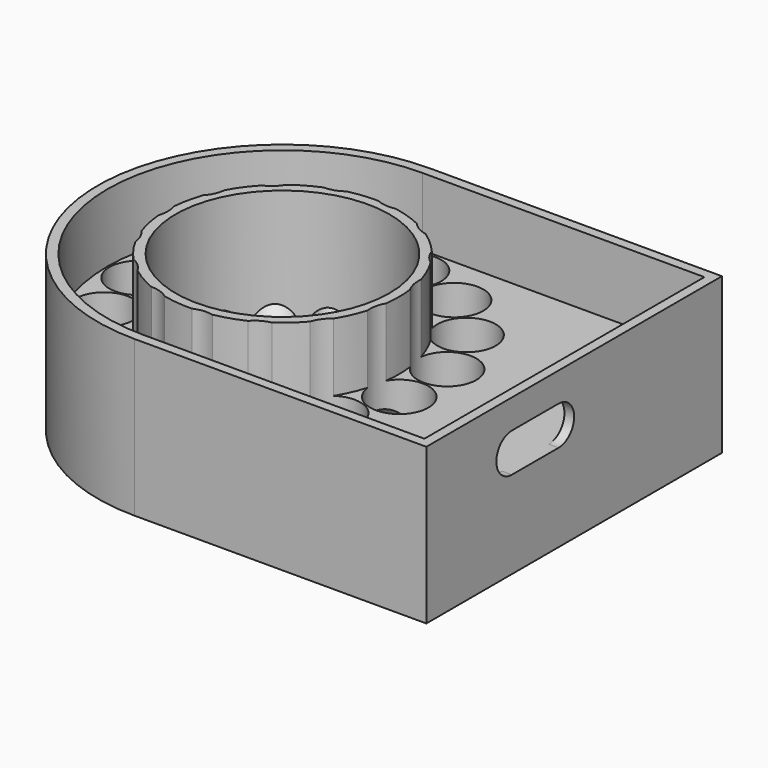
from build123d import *

# Parameters (mm, degrees)
CYLINDER001_R            = 3
CYLINDER001_DEPTH        = 25
CYLINDER_R               = 2.5
CYLINDER_DEPTH           = 10
CYLINDER_PLACEMENT_ANGLE = 225
FUSION_PLACEMENT_ANGLE   = 180
ARRAY001_COUNT           = 15
CYLINDER002_R            = 11
CYLINDER002_DEPTH        = 100
BOX_W                    = 30
BOX_H                    = 38
BOX_DEPTH                = 20
CYLINDER003_R            = 19
CYLINDER003_DEPTH        = 20
SKETCH006_R              = 12
POCKET003_DEPTH          = 7
POCKET004_DEPTH          = 1.001
POCKET005_DEPTH          = 4


with BuildPart() as obj1:
    # Cone → Cone (revolve)
    with BuildSketch(Plane(origin=(0, 0, -10), x_dir=(1, 0, 0), z_dir=(0, -1, 0))):
        Polygon((0, 0), (17, 0), (8, 11), (0, 11), align=None)
    revolve(axis=Axis((0, 0, -10), (0, 0, 1)))


with BuildPart() as obj2:
    # Cylinder001 → Cylinder001 (new body)
    with BuildSketch(Plane.XY.offset(-2)):
        Circle(CYLINDER001_R)
    extrude(amount=CYLINDER001_DEPTH)


with BuildPart() as array001:
    # Cylinder → Cylinder (new body)
    with BuildSketch(Plane.XY):
        Circle(CYLINDER_R)
    extrude(amount=CYLINDER_DEPTH)


with BuildPart() as array001_1:
    # Cylinder placement: moved
    add(array001.part.rotate(Axis((0, 0, 0), (0, 1, 0)), CYLINDER_PLACEMENT_ANGLE))

    # Fusion: union obj2
    add(obj2.part)


with BuildPart() as array001_2:
    # Fusion placement: moved
    add(array001_1.part.moved(Location((-14.8, 0, 0))).rotate(Axis((-14.8, 0, 0), (0, 0, 1)), FUSION_PLACEMENT_ANGLE))

    # Array001: Array001 ×15 about axis
    array001_axis = Axis((0, 0, 0), (0, 0, 1))


with BuildPart() as array001_3:
    add(array001_2.part)
    for i in range(1, ARRAY001_COUNT):
        add(array001_2.part.rotate(array001_axis, i * 360 / ARRAY001_COUNT))


with BuildPart() as obj3:
    # Cylinder002 → Cylinder002 (new body)
    with BuildSketch(Plane.XY.offset(-50)):
        Circle(CYLINDER002_R)
    extrude(amount=CYLINDER002_DEPTH)


with BuildPart() as obj4:
    # Box → Box (new body)
    with BuildSketch(Plane(origin=(0, -19, -10), x_dir=(1, 0, 0), z_dir=(0, 0, 1))):
        with Locations((15, 19)):
            Rectangle(BOX_W, BOX_H)
    extrude(amount=BOX_DEPTH)


with BuildPart() as body003:
    # Cylinder003 → Cylinder003 (new body)
    with BuildSketch(Plane.XY.offset(-10)):
        Circle(CYLINDER003_R)
    extrude(amount=CYLINDER003_DEPTH)

    # Fusion001: union obj4
    add(obj4.part)

    # Cut002: cut obj3
    add(obj3.part, mode=Mode.SUBTRACT)

    # Cut003: cut Array001
    add(array001_3.part, mode=Mode.SUBTRACT)

    # Cut004: cut obj1
    add(obj1.part, mode=Mode.SUBTRACT)

    # Sketch006 (on Face53 of BaseFeature) → Pocket003 (cut)
    with BuildSketch(Plane.XY.offset(10)):
        with BuildLine():
            ThreePointArc((0, 18), (-18, 0), (0, -18))
            Line((29, -18), (0, -18))
            Line((29, 18), (29, -18))
            Line((0, 18), (29, 18))
        make_face()
        Circle(SKETCH006_R, mode=Mode.SUBTRACT)
    extrude(amount=-POCKET003_DEPTH, mode=Mode.SUBTRACT)

    # Sketch007 (on Face10 of Pocket003) → Pocket004 (cut, through all)
    with BuildSketch(Plane(origin=(29, 0, 0), x_dir=(0, -1, 0), z_dir=(-1, 0, 0))):
        with BuildLine():
            ThreePointArc((2, 7), (0, 5), (2, 3))
            Line((2, 3), (8, 3))
            ThreePointArc((8, 3), (10, 5), (8, 7))
            Line((8, 7), (2, 7))
        make_face()
    extrude(amount=-POCKET004_DEPTH, mode=Mode.SUBTRACT)

    # Sketch008 (on Face2 of Pocket004) → Pocket005 (cut)
    with BuildSketch(Plane(origin=(0, 0, -10), x_dir=(1, 0, 0), z_dir=(0, 0, -1))):
        with BuildLine():
            ThreePointArc((0, 19), (-19, 0), (0, -19))
            Line((30, -19), (0, -19))
            Line((30, 19), (30, -19))
            Line((0, 19), (30, 19))
        make_face()
    extrude(amount=-POCKET005_DEPTH, mode=Mode.SUBTRACT)


solid = body003.part
